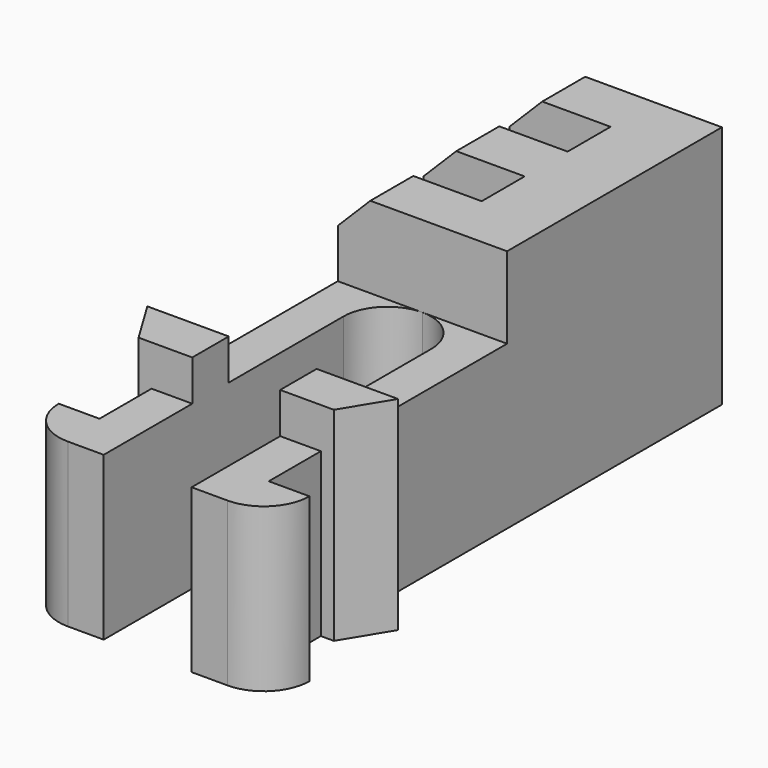
from build123d import *

# Parameters (mm, degrees)
PAD017_DEPTH           = 5
PAD020_DEPTH           = 6.25
SKETCH055_W            = 5.2
SKETCH055_H            = 1.65
PAD025_DEPTH           = 7.5
SKETCH052_W            = 5.2
SKETCH052_H            = 1.65
PAD026_DEPTH           = 4.6
SKETCH053_W            = 2.1
SKETCH053_H            = 1.65
PAD027_DEPTH           = 7.5
SKETCH054_W            = 5.2
SKETCH054_H            = 1.65
PAD028_DEPTH           = 7.5
LINEARPATTERN011_COUNT = 2
LINEARPATTERN011_PITCH = 3.3
CHAMFER001_SIZE        = 1


with BuildPart() as obj1:
    # Sketch034 → Pad017 (new body)
    with BuildSketch(Plane.XY):
        with BuildLine():
            Line((-1.35, -1.8), (-1.35, 6))
            ThreePointArc((0, 7.35), (-0.954594, 6.954594), (-1.35, 6))
            Line((0, 9), (0, 7.35))
            Line((-2.6, 9), (0, 9))
            Line((-2.6, -1.8), (-2.6, 9))
            Line((-3.85, -1.8), (-2.6, -1.8))
            ThreePointArc((-3.85, -1.8), (-3.439949, -2.789949), (-2.45, -3.2))
            Line((-1.35, -3.2), (-2.45, -3.2))
            Line((-1.35, -1.8), (-1.35, -3.2))
        make_face()
    extrude(amount=PAD017_DEPTH)

    # Sketch037 → Pad020 (join)
    with BuildSketch(Plane.XY):
        Polygon((-1.35, 0.2), (-1.35, 1.6), (-2.6, 1.6), (-3.85, 1.6), (-3, 0.2), (-2.6, 0.2), align=None)
    extrude(amount=PAD020_DEPTH)


with BuildPart() as obj2:
    # Mirror001: instance of _obj1
    add(obj1.part.mirror(Plane(origin=(0, 0, 0), x_dir=(0, 1, 0), z_dir=(-1, 0, 0))))


with BuildPart() as body018:
    # Fusion001 base: copy of _obj1
    add(obj1.part)

    # Fusion001: union _obj2)
    add(obj2.part)

    # Sketch055 → Pad025 (new body)
    with BuildSketch(Plane.XY):
        with Locations((0, 8.175)):
            Rectangle(SKETCH055_W, SKETCH055_H)
    extrude(amount=PAD025_DEPTH)

    # Sketch052 → Pad026 (join)
    with BuildSketch(Plane.XY):
        with Locations((0, 9.825)):
            Rectangle(SKETCH052_W, SKETCH052_H)
    pad026 = extrude(amount=PAD026_DEPTH)

    # Sketch053 → Pad027 (join)
    with BuildSketch(Plane.XY):
        with Locations((1.55, 9.825)):
            Rectangle(SKETCH053_W, SKETCH053_H)
    pad027 = extrude(amount=PAD027_DEPTH)

    # Sketch054 → Pad028 (join)
    with BuildSketch(Plane.XY):
        with Locations((0, 11.475)):
            Rectangle(SKETCH054_W, SKETCH054_H)
    pad028 = extrude(amount=PAD028_DEPTH)

    # LinearPattern011: Pad026, Pad027, Pad028 ×2
    with Locations(*[(0, i * LINEARPATTERN011_PITCH, 0) for i in range(1, LINEARPATTERN011_COUNT)]):
        add(pad026)
        add(pad027)
        add(pad028)

    # Chamfer001
    chamfer001_edges = [body018.edges().sort_by_distance(p)[0] for p in [
        (-2.6, 14.775, 7.5),
        (-2.6, 11.475, 7.5),
        (-2.6, 8.175, 7.5),
    ]]
    chamfer(chamfer001_edges, length=CHAMFER001_SIZE)


solid = body018.part
